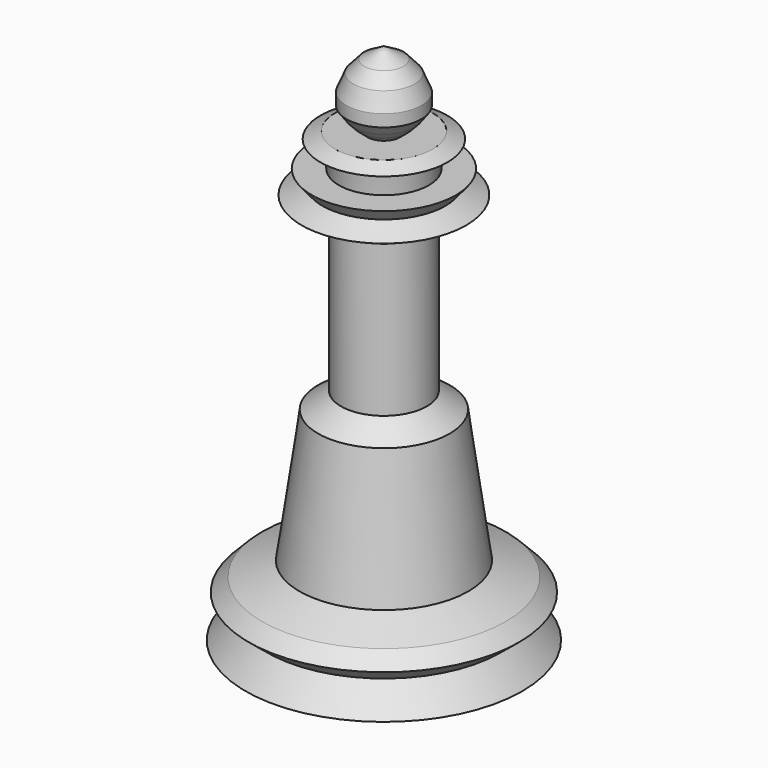
from build123d import *


with BuildPart() as f1:
    # F0 (on Front) → F1 (revolve)
    with BuildSketch(Plane.XZ):
        Polygon((0, 1.479333), (0, -39.621606), (10.686327, -39.621606), (12.694056, -39.621606), (10.686327, -37.165482), (12.40773, -35.758342), (11.171563, -34.501117), (7.745949, -33.168934), (6.033141, -20.988975), (3.939711, -19.46648), (3.939711, -5.573714), (7.555637, -3.670595), (5.652518, -2.719036), (6.604077, -1.550774), (5.652518, -1.550774), (4.129356, -1.550774), (4.270291, 0.210916), (5.820578, 0.845125), (4.481694, 1.479333), (1.509109, 1.479333), align=None)
        Polygon((0, 8.343297), (0, 1.479333), (1.509109, 1.479333), (2.240847, 2.099824), (2.792814, 2.683326), (3.434667, 3.558579), (3.434667, 4.667234), (2.792814, 6.184339), (1.800861, 7.292993), align=None)
    revolve(axis=Axis((0, 0, 4.911315), (0, 0, -1)))


solid = f1.part
